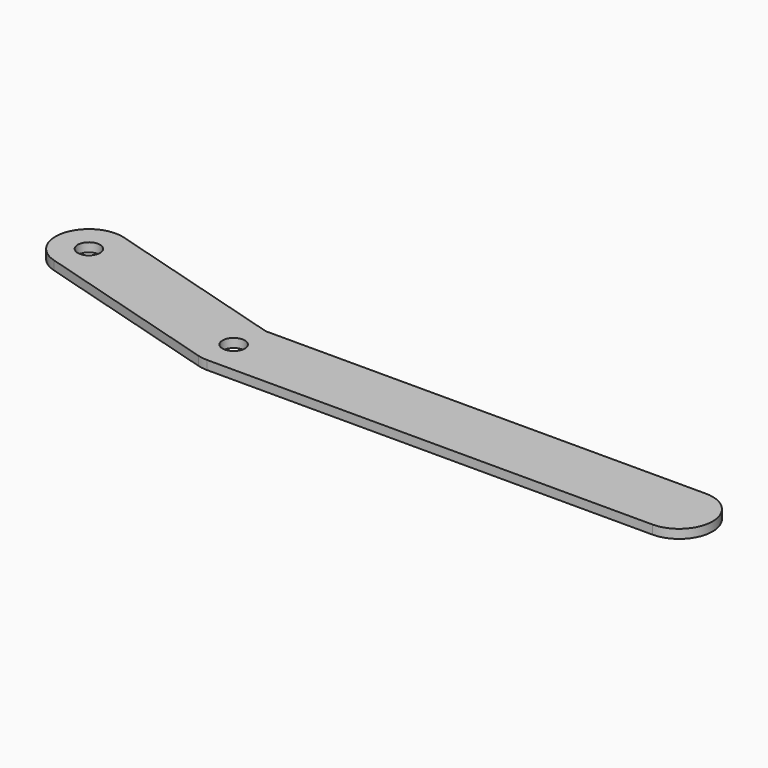
from build123d import *

# Parameters (mm, degrees)
F0_R     = 2.5
F1_DEPTH = 2


with BuildPart() as f1:
    # F0 (on Top) → F1 (new body)
    with BuildSketch(Plane.XY):
        with BuildLine():
            ThreePointArc((-2.116247, -14.695241), (-1.069039, -14.923419), (0, -15))
            Line((0, -15), (100, -15))
            ThreePointArc((100, -15), (107.5, -7.5), (100, 0))
            Line((100, 0), (1.24576, -0.048733))
            Line((1.24576, -0.048733), (-40.383753, 12.195241))
            ThreePointArc((-40.383753, 12.195241), (-49.695241, 7.116247), (-44.616247, -2.195241))
            Line((-44.616247, -2.195241), (-2.116247, -14.695241))
        make_face()
        with Locations((0, -7.5)):
            Circle(F0_R, mode=Mode.SUBTRACT)
        with Locations((-42.5, 5)):
            Circle(F0_R, mode=Mode.SUBTRACT)
    extrude(amount=F1_DEPTH)


solid = f1.part
